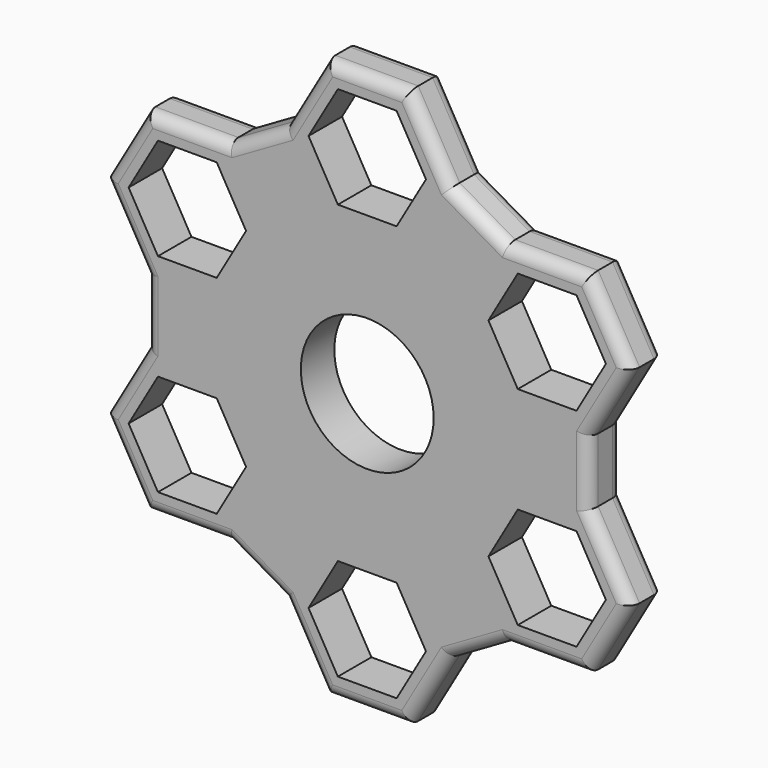
from build123d import *

# Parameters (mm, degrees)
F0_R     = 14.5
F0_R_2   = 11.1
F1_DEPTH = 7
F2_R     = 2


with BuildPart() as f1:
    # F0 (on Front) → F1 (new body)
    with BuildSketch(Plane.XZ):
        Polygon((-16.206814, 17.357009), (-23.135017, 29.357009), (-36.991424, 29.357009), (-43.919627, 17.357009), (-36.991424, 5.357009), (-23.135017, 5.357009), align=None)
        Polygon((-34.970698, 25.857009), (-25.155743, 25.857009), (-20.248266, 17.357009), (-25.155743, 8.857009), (-34.970698, 8.857009), (-39.878175, 17.357009), align=None, mode=Mode.SUBTRACT)
        Polygon((-6.928203, 22.714017), (6.928203, 22.714017), (13.856406, 34.714017), (6.928203, 46.714017), (-6.928203, 46.714017), (-13.856406, 34.714017), align=None)
        Polygon((9.814955, 34.714017), (4.907477, 26.214017), (-4.907477, 26.214017), (-9.814955, 34.714017), (-4.907477, 43.214017), (4.907477, 43.214017), align=None, mode=Mode.SUBTRACT)
        Polygon((13.856406, 34.714017), (6.928203, 22.714017), (-6.928203, 22.714017), (-13.856406, 34.714017), (-23.135017, 29.357009), (-16.206814, 17.357009), (-23.135017, 5.357009), (-36.991424, 5.357009), (-36.991424, -5.357009), (-23.135017, -5.357009), (-16.206814, -17.357009), (-23.135017, -29.357009), (-13.856406, -34.714017), (-6.928203, -22.714017), (6.928203, -22.714017), (13.856406, -34.714017), (23.135017, -29.357009), (16.206814, -17.357009), (23.135017, -5.357009), (36.991424, -5.357009), (36.991424, 5.357009), (23.135017, 5.357009), (16.206814, 17.357009), (23.135017, 29.357009), align=None)
        Circle(F0_R, mode=Mode.SUBTRACT)
        Circle(F0_R)
        Circle(F0_R_2, mode=Mode.SUBTRACT)
        Polygon((-23.135017, -5.357009), (-36.991424, -5.357009), (-43.919627, -17.357009), (-36.991424, -29.357009), (-23.135017, -29.357009), (-16.206814, -17.357009), align=None)
        Polygon((-39.878175, -17.357009), (-34.970698, -8.857009), (-25.155743, -8.857009), (-20.248266, -17.357009), (-25.155743, -25.857009), (-34.970698, -25.857009), align=None, mode=Mode.SUBTRACT)
        Polygon((6.928203, -46.714017), (13.856406, -34.714017), (6.928203, -22.714017), (-6.928203, -22.714017), (-13.856406, -34.714017), (-6.928203, -46.714017), align=None)
        Polygon((-4.907477, -43.214017), (-9.814955, -34.714017), (-4.907477, -26.214017), (4.907477, -26.214017), (9.814955, -34.714017), (4.907477, -43.214017), align=None, mode=Mode.SUBTRACT)
        Polygon((43.919627, -17.357009), (36.991424, -5.357009), (23.135017, -5.357009), (16.206814, -17.357009), (23.135017, -29.357009), (36.991424, -29.357009), align=None)
        Polygon((34.970698, -25.857009), (25.155743, -25.857009), (20.248266, -17.357009), (25.155743, -8.857009), (34.970698, -8.857009), (39.878175, -17.357009), align=None, mode=Mode.SUBTRACT)
        Polygon((36.991424, 29.357009), (23.135017, 29.357009), (16.206814, 17.357009), (23.135017, 5.357009), (36.991424, 5.357009), (43.919627, 17.357009), align=None)
        Polygon((39.878175, 17.357009), (34.970698, 8.857009), (25.155743, 8.857009), (20.248266, 17.357009), (25.155743, 25.857009), (34.970698, 25.857009), align=None, mode=Mode.SUBTRACT)
    extrude(amount=F1_DEPTH)

    # F2
    f2_edges = [f1.edges().sort_by_distance(p)[0] for p in [
        (0, -7, 46.714017),
        (10.392305, -7, 40.714017),
        (18.495712, -7, 32.035513),
        (30.063221, -7, 29.357009),
        (40.455525, -7, 23.357009),
        (40.455525, -7, 11.357009),
        (36.991424, -7, 0),
        (40.455525, -7, -11.357009),
        (40.455525, -7, -23.357009),
        (-10.392305, -7, 40.714017),
        (-18.495712, -7, 32.035513),
        (-30.063221, -7, 29.357009),
        (-40.455525, -7, 23.357009),
        (-40.455525, -7, 11.357009),
        (-36.991424, -7, 0),
        (-40.455525, -7, -11.357009),
        (-40.455525, -7, -23.357009),
        (-18.495712, -7, -32.035513),
        (-10.392305, -7, -40.714017),
        (0, -7, -46.714017),
        (10.392305, -7, -40.714017),
        (18.495712, -7, -32.035513),
        (30.063221, -7, -29.357009),
        (-30.063221, -7, -29.357009),
        (0, 0, -46.714017),
        (10.392305, 0, -40.714017),
        (18.495712, 0, -32.035513),
        (30.063221, 0, -29.357009),
        (40.455525, 0, -23.357009),
        (40.455525, 0, -11.357009),
        (36.991424, 0, 0),
        (40.455525, 0, 11.357009),
        (40.455525, 0, 23.357009),
        (30.063221, 0, 29.357009),
        (18.495712, 0, 32.035513),
        (10.392305, 0, 40.714017),
        (0, 0, 46.714017),
        (-10.392305, 0, 40.714017),
        (-18.495712, 0, 32.035513),
        (-30.063221, 0, 29.357009),
        (-40.455525, 0, 23.357009),
        (-40.455525, 0, 11.357009),
        (-36.991424, 0, 0),
        (-40.455525, 0, -11.357009),
        (-40.455525, 0, -23.357009),
        (-30.063221, 0, -29.357009),
        (-18.495712, 0, -32.035513),
        (-10.392305, 0, -40.714017),
    ]]
    fillet(f2_edges, radius=F2_R)


solid = f1.part
